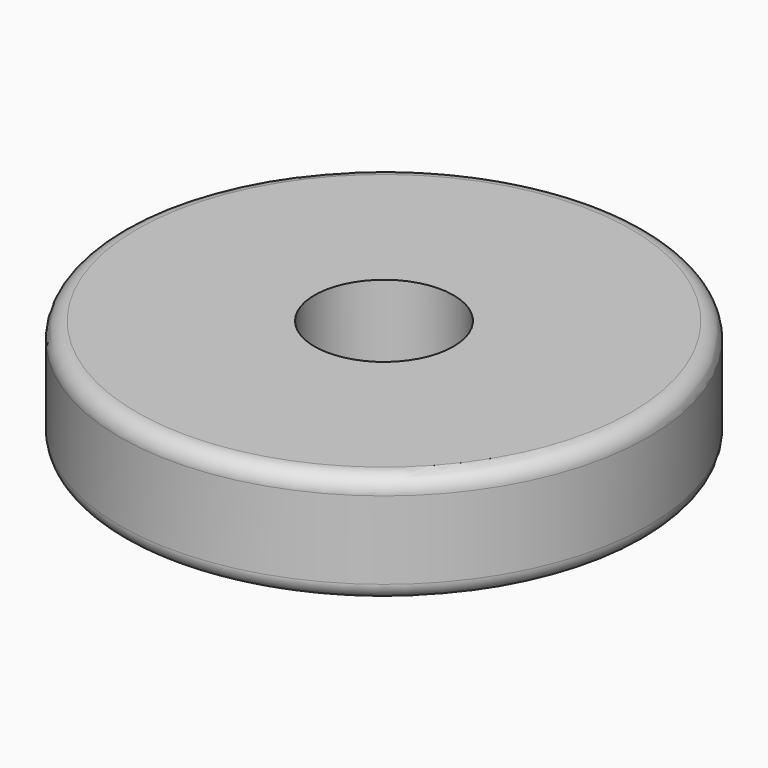
from build123d import *

# Parameters (mm, degrees)
F2_R     = 2.5
F3_DEPTH = 11.3
F4_R     = 0.6


with BuildPart() as f1:
    # F0 (on Front) → F1 (revolve)
    with BuildSketch(Plane.XZ):
        Polygon((-4, 0), (0, 0), (0, 5), (-9.5, 5), (-9.5, 1), (-4, 1), align=None)
    revolve(axis=Axis((0, 0, 2.5), (0, 0, -1)))

    # F2 (on face) → F3 (cut)
    with BuildSketch(Plane.XY.offset(5)):
        Circle(F2_R)
    extrude(amount=-F3_DEPTH, mode=Mode.SUBTRACT)

    # F4
    f4_edges = [f1.edges().sort_by_distance(p)[0] for p in [
        (9.5, 0, 5),
        (9.5, 0, 1),
        (4, 0, 1),
    ]]
    fillet(f4_edges, radius=F4_R)


solid = f1.part
